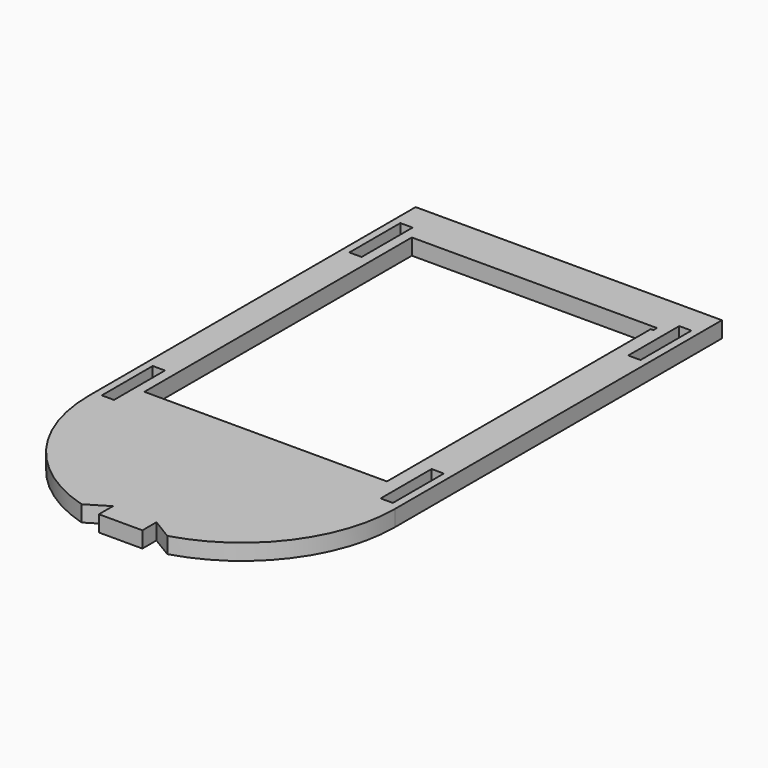
from build123d import *

# Parameters (mm, degrees)
F0_W     = 3.81
F0_H     = 19.812
F1_DEPTH = 5


with BuildPart() as f1:
    # F0 (on Top) → F1 (new body)
    with BuildSketch(Plane.XY):
        with BuildLine():
            Line((47.890385, 43.056241), (-47.359621, 43.056241))
            Line((-47.359621, 43.056241), (-47.359621, -83.943759))
            ThreePointArc((-47.359621, -83.943759), (-37.834623, -112.518757), (-13.069628, -129.663759))
            Line((-13.069628, -129.663759), (-6.500043, -125.697696))
            Line((-6.500043, -125.697696), (-6.500043, -131.157266))
            Line((-6.500043, -131.157266), (7.030807, -131.157453))
            Line((7.030807, -131.157453), (7.030807, -125.697696))
            Line((7.030807, -125.697696), (13.601633, -129.663759))
            ThreePointArc((13.601633, -129.663759), (38.365787, -112.518385), (47.890385, -83.943759))
            Line((47.890385, -83.943759), (47.890385, 43.056241))
        make_face()
        with Locations((-43.104408, -72.005759)):
            Rectangle(F0_W, F0_H, mode=Mode.SUBTRACT)
        with Locations((43.623185, -72.005759)):
            Rectangle(F0_W, F0_H, mode=Mode.SUBTRACT)
        Polygon((-38.10741, 28.605105), (-38.10741, 30.000368), (38.148515, 30.000368), (38.148515, 28.605105), (37.334811, 28.605105), (37.334811, -73.974073), (-38.10741, -73.974073), align=None, mode=Mode.SUBTRACT)
        with Locations((-43.104408, 24.260241)):
            Rectangle(F0_W, F0_H, mode=Mode.SUBTRACT)
        with Locations((43.623185, 24.260241)):
            Rectangle(F0_W, F0_H, mode=Mode.SUBTRACT)
    extrude(amount=F1_DEPTH)


solid = f1.part
